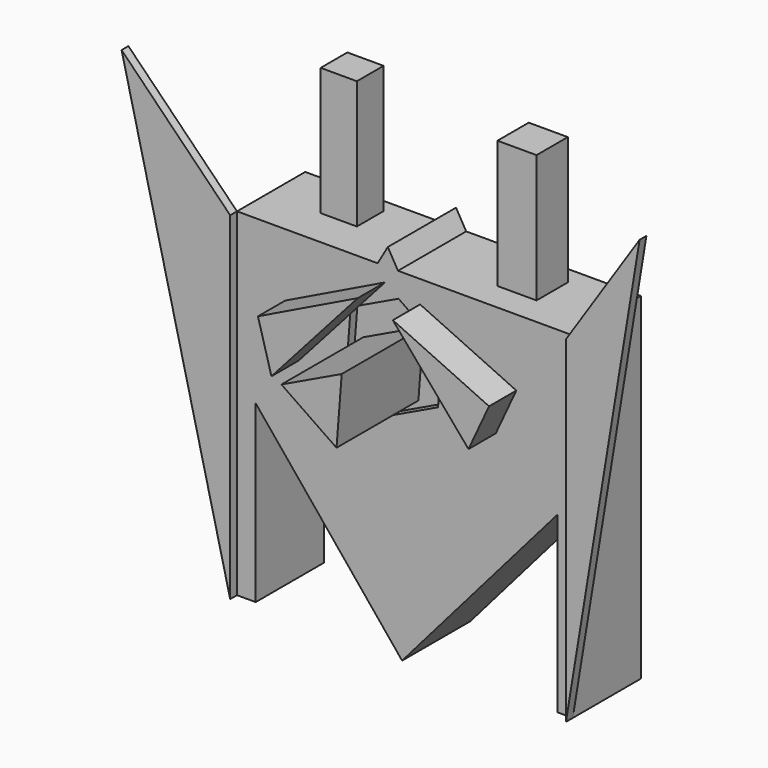
from build123d import *

# Parameters (mm, degrees)
F0_W      = 5.5739544332
F0_H      = 52.1328803152
F0_W_2    = 4.5903213322
F0_H_2    = 51.8049988896
F1_DEPTH  = 25.4
F3_DEPTH  = 2.54
F5_DEPTH  = 2.54
F7_DEPTH  = 30.48
F8_W      = 11.6416700184
F8_H      = 11.6416662931
F8_W_2    = 10.7949981466
F8_H_2    = 9.9483337253
F9_DEPTH  = 38.1
F11_DEPTH = 10.16
F13_DEPTH = 5.08
F15_DEPTH = 25.4


with BuildPart() as f1:
    # F0 (on Front) → F1 (new body)
    with BuildSketch(Plane.XZ):
        Polygon((-40.9849695861, 61.3135099411), (-40.9849695861, 12.7873104066), (-35.4110151529, 12.7873104066), (-7.8691178933, 12.7873104066), (22.2958195955, 12.7873104066), (54.4280335307, 12.7873104066), (59.0183548629, 12.7873104066), (59.0183548629, 61.3135099411), (6.9633811861, 61.3135099411), (24.947018414, 30.1649365574), (-17.0779079713, 30.1649365574), (0.9057292566, 61.3135099411), align=None)
        with Locations((-38.1979923695, -13.279129751)):
            Rectangle(F0_W, F0_H)
        with BuildLine():
            Line((22.2958195955, 12.7873104066), (-7.8691178933, 12.7873104066))
            ThreePointArc((-7.8691178933, 12.7873104066), (-4.8255429787, 9.4580783197), (-2.0328208254, 5.9157856266))
            ThreePointArc((-2.0328208254, 5.9157856266), (5.2186895972, -7.0208173818), (9.1806305572, -21.3121827692))
            ThreePointArc((9.1806305572, -21.3121827692), (19.1156867099, -5.5614598226), (22.2958195955, 12.7873104066))
        make_face()
        with BuildLine():
            ThreePointArc((-2.0328208254, 5.9157856266), (-4.8255429787, 9.4580783197), (-7.8691178933, 12.7873104066))
            ThreePointArc((-7.8691178933, 12.7873104066), (-18.7687746779, -1.7887329993), (-8.3092054777, -16.6837312046))
            ThreePointArc((-8.3092054777, -16.6837312046), (-7.7508381444, -4.6674984453), (-2.0328208254, 5.9157856266))
        make_face()
        Polygon((3.9345552213, 66.5595903993), (0.9057292566, 61.3135099411), (6.9633811861, 61.3135099411), align=None)
        Polygon((6.9633811861, 61.3135099411), (0.9057292566, 61.3135099411), (-17.0779079713, 30.1649365574), (24.947018414, 30.1649365574), align=None)
        with Locations((56.7231941968, -13.1151890382)):
            Rectangle(F0_W_2, F0_H_2)
    extrude(amount=F1_DEPTH)

    # F2 (on face) → F3 (cut)
    with BuildSketch(Plane.XZ.offset(25.4)):
        Polygon((7.1152635136, 54.0399153627), (-7.1152635136, 47.2390080892), (-8.3407685595, 31.5145565376), (4.6642534218, 22.5910122596), (18.8947804489, 29.3919195331), (20.1202854949, 45.1163710847), align=None)
    extrude(amount=-F3_DEPTH, mode=Mode.SUBTRACT)

    # F6 (on face) → F7 (join)
    with BuildSketch(Plane.XZ.offset(22.86)):
        Polygon((11.0062066034, 27.5737748613), (12.5528272673, 47.4184599407), (-5.4064844735, 38.835530186), align=None)
    extrude(amount=F7_DEPTH)

    # F8 (on face) → F9 (join)
    with BuildSketch(Plane.XY.offset(61.3135099411)):
        with Locations((35.6366988271, -11.1124999821)):
            Rectangle(F8_W, F8_H)
        with Locations((-19.8199688457, -8.9958328754)):
            Rectangle(F8_W_2, F8_H_2)
    extrude(amount=F9_DEPTH)

    # F10 (on face) → F11 (join)
    with BuildSketch(Plane.XZ.offset(25.4)):
        Polygon((-26.6139451414, 42.5856905058), (-22.6019006222, 28.1555410475), (3.1028238591, 57.0158399642), align=None)
        Polygon((42.2106273472, 41.3744188845), (13.5632408783, 54.6397082508), (36.0895719485, 28.1555410475), align=None)
    extrude(amount=F11_DEPTH)

    # F12 (on face) → F13 (cut)
    with BuildSketch(Plane.XZ.offset(25.4)):
        Polygon((42.4381633341, 52.4575896561), (42.7437583864, 52.4575896561), (43.0469437303, 52.4958908722), (43.342937952, 52.5718892712), (43.6270730458, 52.6843863131), (43.8948680314, 52.8316078523), (44.142099622, 53.0112321172), (44.3648688278, 53.2204263258), (44.5596624452, 53.4558913604), (44.7234084626, 53.7139137969), (44.8535245074, 53.9904244672), (44.947958572, 54.281062633), (45.0052213746, 54.5812447567), (45.0244098467, 54.8862367868), (45.0052213746, 55.191228817), (44.947958572, 55.4914109407), (44.8535245074, 55.7820491065), (44.7234084626, 56.0585597768), (44.5596624452, 56.3165822133), (44.3648688278, 56.5520472479), (44.142099622, 56.7612414565), (43.8948680314, 56.9408657214), (43.6270730458, 57.0880872606), (43.342937952, 57.2005843025), (43.0469437303, 57.2765827015), (42.7437583864, 57.3148839176), (42.4381633341, 57.3148839176), (42.1349779902, 57.2765827015), (41.8389837685, 57.2005843025), (41.5548486747, 57.0880872606), (41.2870536891, 56.9408657214), (41.0398220985, 56.7612414565), (40.8170528927, 56.5520472479), (40.6222592753, 56.3165822133), (40.4585132579, 56.0585597768), (40.3283972131, 55.7820491065), (40.2339631485, 55.4914109407), (40.1767003459, 55.191228817), (40.1575118738, 54.8862367868), (40.1767003459, 54.5812447567), (40.2339631485, 54.281062633), (40.3283972131, 53.9904244672), (40.4585132579, 53.7139137969), (40.6222592753, 53.4558913604), (40.8170528927, 53.2204263258), (41.0398220985, 53.0112321172), (41.2870536891, 52.8316078523), (41.5548486747, 52.6843863131), (41.8389837685, 52.5718892712), (42.1349779902, 52.4958908722), align=None)
        Polygon((-27.9694433308, 53.8256032829), (-27.8940302335, 54.0436492796), (-27.8465402009, 54.2694276859), (-27.827722179, 54.4993778413), (-27.8378729394, 54.7298732946), (-27.8768323985, 54.9572789948), (-27.9439861424, 55.1780086181), (-28.0382751163, 55.3885811265), (-28.158212327, 55.5856756659), (-28.3019062928, 55.7661839375), (-28.4670908742, 55.927259218), (-28.6511610115, 56.0663612542), (-28.8512138089, 56.1812963237), (-29.0640943141, 56.2702518319), (-29.2864452744, 56.3318248973), (-29.5147600823, 56.3650444758), (-29.745438077, 56.3693866749), (-29.9748413287, 56.3447830154), (-30.199352011, 56.2916215119), (-30.4154294563, 56.2107405528), (-30.6196659944, 56.1034156794), (-30.8088406929, 55.9713394689), (-30.9799701539, 55.8165948422), (-31.1303555635, 55.6416222143), (-31.257625254, 55.4491810082), (-31.3597721063, 55.2423061366), (-31.4351852036, 55.0242601399), (-31.4826752363, 54.7984817337), (-31.5014932582, 54.5685315782), (-31.4913424978, 54.3380361249), (-31.4523830387, 54.1106304248), (-31.3852292948, 53.8899008014), (-31.2909403208, 53.679328293), (-31.1710031102, 53.4822337537), (-31.0273091444, 53.3017254821), (-30.862124563, 53.1406502015), (-30.6780544256, 53.0015481654), (-30.4780016283, 52.8866130958), (-30.2651211231, 52.7976575876), (-30.0427701628, 52.7360845222), (-29.8144553549, 52.7028649437), (-29.5837773602, 52.6985227447), (-29.3543741085, 52.7231264041), (-29.1298634262, 52.7762879077), (-28.9137859808, 52.8571688667), (-28.7095494428, 52.9644937401), (-28.5203747443, 53.0965699506), (-28.3492452833, 53.2513145774), (-28.1988598737, 53.4262872052), (-28.0715901832, 53.6187284113), align=None)
    extrude(amount=F13_DEPTH, mode=Mode.SUBTRACT)

    # F14 (on face) → F15 (join)
    with BuildSketch(Plane.XZ.offset(25.4)):
        Polygon((54.4280335307, 12.7873104066), (-35.4110151529, 12.7873104066), (8.1901153082, -40.5132803528), align=None)
    extrude(amount=-F15_DEPTH)


with BuildPart() as f5:
    # F4 (on face) → F5 (new body)
    with BuildSketch(Plane.XZ.offset(25.4)):
        Polygon((-73.3285173774, 94.1193550825), (-40.9849695861, -39.3455699086), (-40.9849695861, 61.3135099411), align=None)
    extrude(amount=F5_DEPTH)


with BuildPart() as f5b:
    # F4 (on face) → F5, piece 2 (new body)
    with BuildSketch(Plane.XZ.offset(25.4)):
        Polygon((80.9571295977, 94.5362001657), (59.0183548629, 61.3135099411), (59.0183548629, -39.017688483), align=None)
    extrude(amount=F5_DEPTH)


solid = Compound([f1.part, f5.part, f5b.part])
